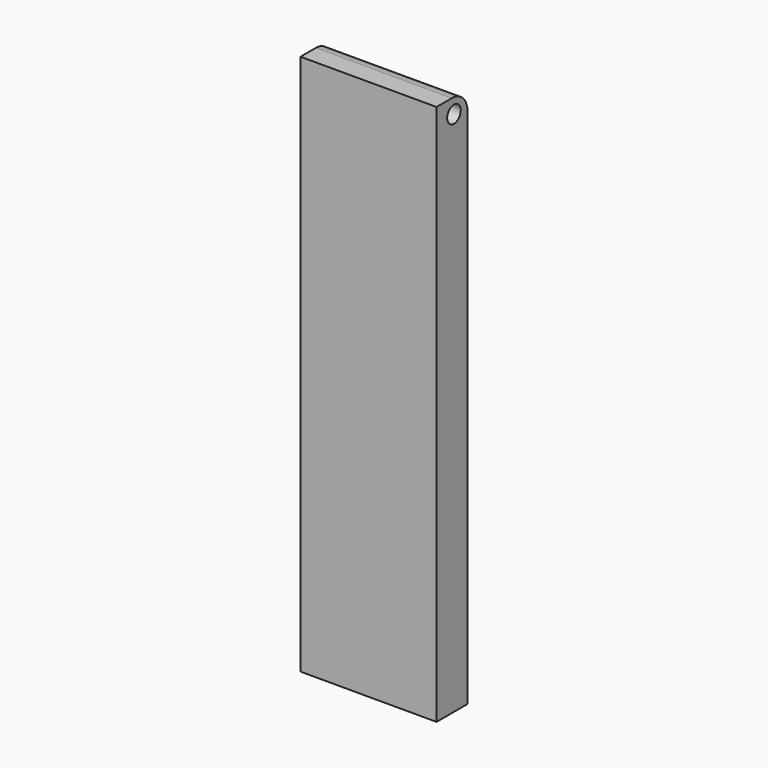
from build123d import *

# Parameters (mm, degrees)
F0_W          = 22.352
F0_H          = 88.9
F1_DEPTH      = 6.35
F2_R          = 1.397
F3_DEPTH      = 15.24
F3_DEPTH_BACK = 15.24
F4_R          = 3.188693


with BuildPart() as f1:
    # F0 (on Front) → F1 (new body)
    with BuildSketch(Plane.XZ):
        Rectangle(F0_W, F0_H)
    extrude(amount=F1_DEPTH)

    # F2 (on Right) → F3 (cut, two sides)
    with BuildSketch(Plane.YZ) as f3_sk:
        with Locations((-2.781508, 41.962247)):
            Circle(F2_R)
    extrude(amount=F3_DEPTH, mode=Mode.SUBTRACT)
    extrude(f3_sk.sketch, amount=-F3_DEPTH_BACK, mode=Mode.SUBTRACT)

    # F4
    f4_edges = [f1.edges().sort_by_distance(p)[0] for p in [
        (0, 0, 44.45),
    ]]
    fillet(f4_edges, radius=F4_R)


solid = f1.part
